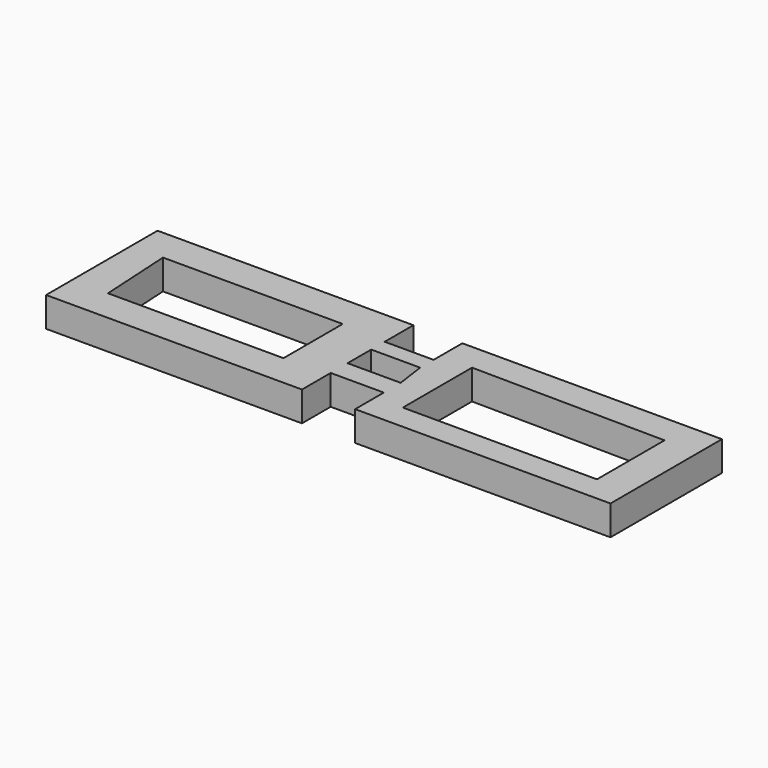
from build123d import *

# Parameters (mm, degrees)
F0_W     = 3.4498951863
F0_H     = 2.832734026
F0_H_2   = 2.2661872208
F1_DEPTH = 4


with BuildPart() as f1:
    # F0 (on Top) → F1 (new body)
    with BuildSketch(Plane.XY):
        with Locations((-1.7249475932, -12.4640292488)):
            Rectangle(F0_W, F0_H)
        with Locations((-1.7249475932, -5.9487414546)):
            Rectangle(F0_W, F0_H_2)
        Polygon((18.1294977665, 0), (3.1160083599, 0), (3.1160083599, -4.8156478442), (0, -4.8156478442), (0, -7.081835065), (3.1160083599, -7.081835065), (3.6825551651, -11.0476622358), (0, -11.0476622358), (0, -13.8803962618), (3.6825551651, -13.8803962618), (3.6825551651, -18.6960436404), (37.9586368799, -18.6960436404), (37.9586368799, 0), (32.2931706905, 0), align=None)
        Polygon((7.3651084676, -3.682554001), (33.4262624383, -3.9658271708), (33.4262624383, -15.2967637405), (7.3651084676, -15.2967637405), align=None, mode=Mode.SUBTRACT)
        Polygon((-3.4498951863, -7.081835065), (-3.4498951863, -4.8156478442), (-3.4498951863, 0), (-6.85604522, 0), (-37.7952493727, 0), (-37.7952493727, -18.6960436404), (-3.4498951863, -18.6960436404), (-3.4498951863, -13.8803962618), (-3.4498951863, -11.0476622358), align=None)
        Polygon((-32.9698696733, -14.3438782543), (-33.5375629365, -4.4092708267), (-9.4106579199, -4.4092708267), (-9.4106579199, -14.3438782543), align=None, mode=Mode.SUBTRACT)
    extrude(amount=F1_DEPTH)


solid = f1.part
